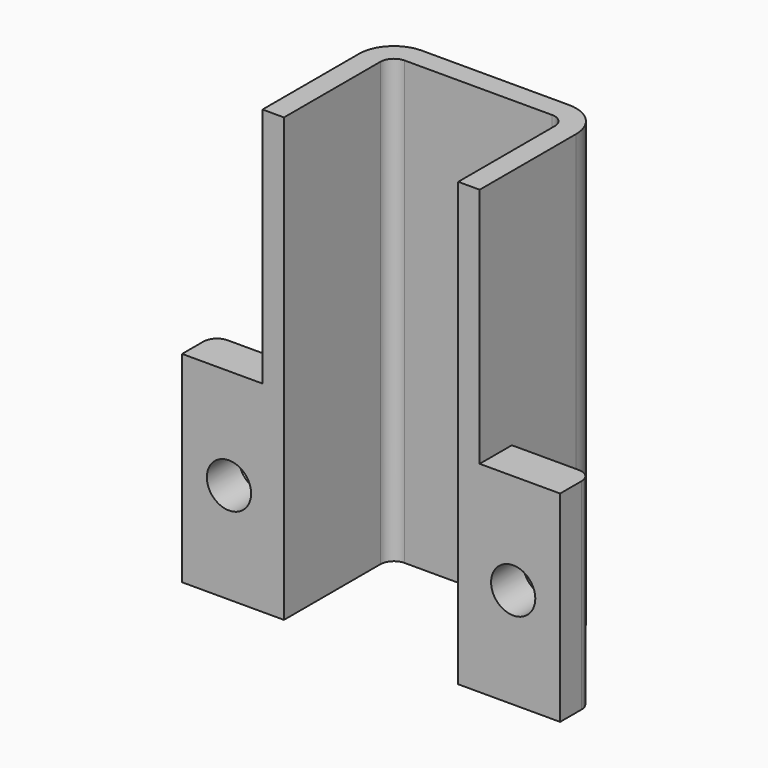
from build123d import *

# Parameters (mm, degrees)
F2_DEPTH = 15
F4_DEPTH = 18
F6_D     = 3.3
F8_D     = 3.3
F9_R     = 1
F10_R    = 2.6


with BuildPart() as f2:
    # F1 (on Top) → F2 (new body)
    with BuildSketch(Plane.XY):
        Polygon((0, 3), (0, 0), (7.6, 0), (7.6, 10), (20.6, 10), (20.6, 0), (28.2, 0), (28.2, 3), (22.2, 3), (22.2, 11.6), (6, 11.6), (6, 3), align=None)
    extrude(amount=F2_DEPTH)

    # F3 (on face) → F4 (join)
    with BuildSketch(Plane.XY.offset(15)):
        Polygon((6, 0), (7.6, 0), (7.6, 10), (20.6, 10), (20.6, 0), (22.2, 0), (22.2, 3), (22.2, 11.6), (6, 11.6), (6, 3), align=None)
    extrude(amount=F4_DEPTH)

    # F6 (through all)
    with Locations(Plane(origin=(0, 3, 0), x_dir=(-1, 0, 0), z_dir=(0, 1, 0))):
        with Locations((-3.5, 7.5)):
            Hole(F6_D / 2)

    # F8 (through all)
    with Locations(Plane(origin=(0, 3, 0), x_dir=(-1, 0, 0), z_dir=(0, 1, 0))):
        with Locations((-24.7, 7.5)):
            Hole(F8_D / 2)

    # F9
    f9_edges = [f2.edges().sort_by_distance(p)[0] for p in [
        (20.6, 10, 16.5),
        (7.6, 10, 16.5),
        (28.2, 3, 7.5),
        (0, 3, 7.5),
    ]]
    fillet(f9_edges, radius=F9_R)

    # F10
    f10_edges = [f2.edges().sort_by_distance(p)[0] for p in [
        (6, 11.6, 16.5),
        (22.2, 11.6, 16.5),
    ]]
    fillet(f10_edges, radius=F10_R)


solid = f2.part
